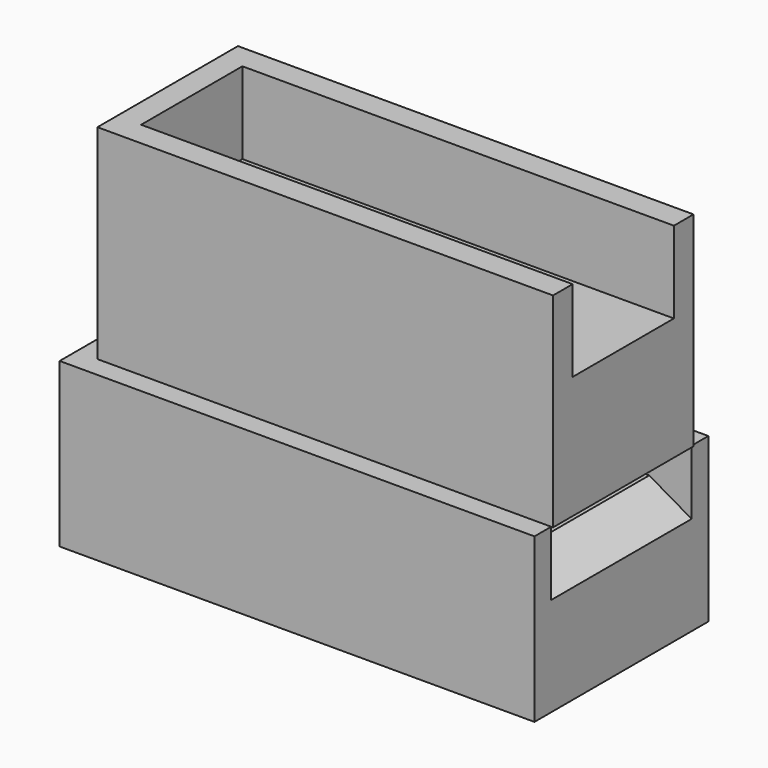
from build123d import *

# Parameters (mm, degrees)
F0_W     = 55.7761411649
F0_H     = 21.5
F1_DEPTH = 25
F2_W     = 52.8311664967
F2_H     = 15.5
F3_DEPTH = 10
F4_W     = 58.1333647091
F4_H     = 26.6126239309
F5_DEPTH = 15
F6_DEPTH = 4.9
F7_DEPTH = 5
F8_SIZE2 = 3
F8_SIZE  = 5.1961524227


with BuildPart() as f1:
    # F0 (on Top) → F1 (new body)
    with BuildSketch(Plane.XY):
        Rectangle(F0_W, F0_H)
    extrude(amount=F1_DEPTH)

    # F2 (on face) → F3 (cut)
    with BuildSketch(Plane.XY.offset(25)):
        with Locations((1.4724873341, 0)):
            Rectangle(F2_W, F2_H)
    extrude(amount=-F3_DEPTH, mode=Mode.SUBTRACT)


with BuildPart() as f5:
    # F4 (on Top) → F5 (new body)
    with BuildSketch(Plane.XY):
        with Locations((-1.4055008069, 0)):
            Rectangle(F4_W, F4_H)
    extrude(amount=-F5_DEPTH)

    # F6 (cut): a face of the model
    f6_faces = [f1.part.faces().sort_by_distance(p)[0] for p in [
        (0, 0, 0),
    ]]
    extrude(f6_faces, amount=F6_DEPTH, mode=Mode.SUBTRACT)

    # F7 (add): a face of the model
    f7_faces = [f5.faces().sort_by_distance(p)[0] for p in [
        (-1.4055008069, 0, -15),
    ]]
    extrude(f7_faces, amount=F7_DEPTH)

    # F8
    f8_edges = [f5.edges().sort_by_distance(p)[0] for p in [
        (27.661182, 0, -4.9),
    ]]
    f8_side = f5.faces().sort_by_distance((-0.113445, 0, -4.9))[0]
    chamfer(f8_edges, length=F8_SIZE, length2=F8_SIZE2, reference=f8_side)


solid = Compound([f1.part, f5.part])
